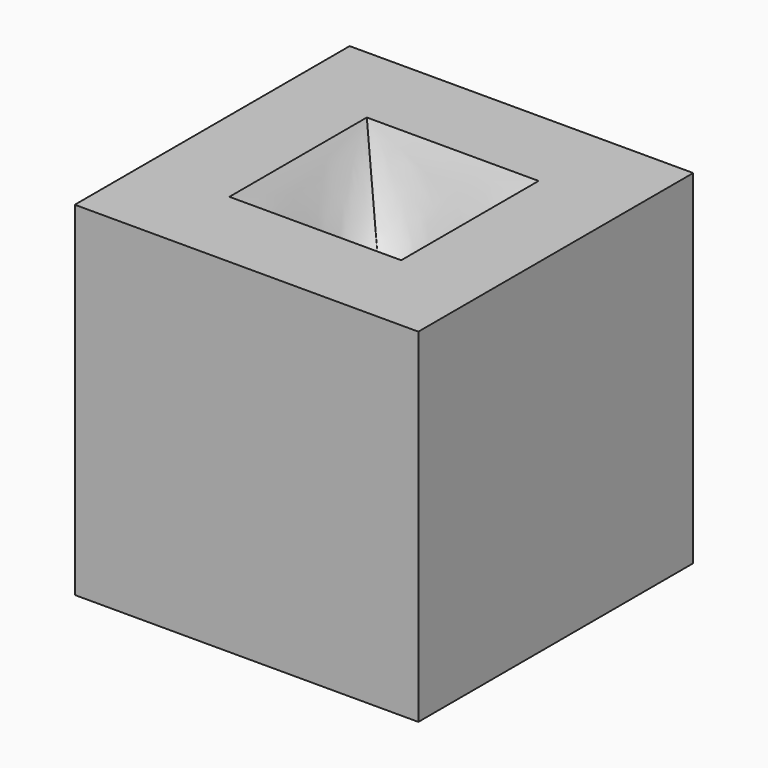
from build123d import *

# Parameters (mm, degrees)
F0_W     = 20
F0_H     = 20
F0_R     = 0.18
F1_DEPTH = 20
F4_R     = 2.5
F2_W     = 10
F2_H     = 10
F6_R     = 0.18


with BuildPart() as f1:
    # F0 (on Top) → F1 (new body)
    with BuildSketch(Plane.XY):
        Rectangle(F0_W, F0_H)
        Circle(F0_R, mode=Mode.SUBTRACT)
    extrude(amount=F1_DEPTH)

    # F4 (on offset) → F7 section 0
    with BuildSketch(Plane.XY.offset(15)):
        Circle(F4_R)
    # F2 (on face) → F7 section 1
    with BuildSketch(Plane.XY.offset(20)):
        Rectangle(F2_W, F2_H)
    loft(mode=Mode.SUBTRACT)

    # F4 (on offset) → F8 section 0
    with BuildSketch(Plane.XY.offset(15)):
        Circle(F4_R)
    # F6 (on offset) → F8 section 1
    with BuildSketch(Plane.XY.offset(5)):
        Circle(F6_R)
    loft(mode=Mode.SUBTRACT)

    # F10 (on offset) → F11 (revolve, cut)
    with BuildSketch(Plane(origin=(0, 0, 0), x_dir=(0, -1, 0), z_dir=(-1, 0, 0))):
        Polygon((0.4, 0), (0, 1), (0, 0), align=None)
    revolve(axis=Axis((0, 0, 0.5), (0, 0, 1)), mode=Mode.SUBTRACT)


solid = f1.part
